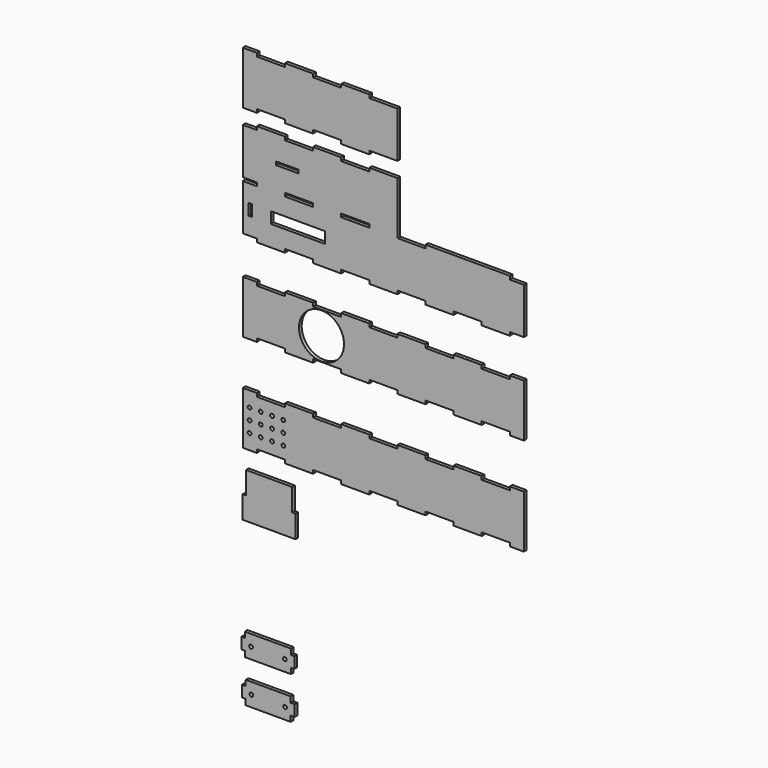
from build123d import *

# Parameters (mm, degrees)
F0_W     = 3
F0_H     = 10
F0_W_2   = 48
F0_W_3   = 25
F0_H_2   = 3
F0_W_4   = 20
F0_R     = 20
F0_R_2   = 1.65
F1_DEPTH = 3
F2_DEPTH = 3


with BuildPart() as f1:
    # F0 (on Front) → F1 (new body)
    with BuildSketch(Plane.XZ):
        Polygon((-112.5, 202.925142), (-125, 202.925142), (-125, 155.925142), (-112.5, 155.925142), (-112.5, 158.925142), (-87.5, 158.925142), (-87.5, 155.925142), (-62.5, 155.925142), (-62.5, 158.925142), (-37.5, 158.925142), (-37.5, 155.925142), (-12.5, 155.925142), (-12.5, 158.925142), (12.5, 158.925142), (12.5, 199.925142), (-12.5, 199.925142), (-12.5, 202.925142), (-37.5, 202.925142), (-37.5, 199.925142), (-62.5, 199.925142), (-62.5, 202.925142), (-87.5, 202.925142), (-87.5, 199.925142), (-112.5, 199.925142), align=None)
        Polygon((-87.5, 145.5), (-112.5, 145.5), (-112.5, 142.5), (-125, 142.5), (-125, 101.5), (-112.5, 101.5), (-112.5, 98.5), (-125, 98.5), (-125, 57.5), (-112.5, 57.5), (-112.5, 54.5), (-87.5, 54.5), (-87.5, 57.5), (-62.5, 57.5), (-62.5, 54.5), (-37.5, 54.5), (-37.5, 57.5), (-12.5, 57.5), (-12.5, 54.5), (12.5, 54.5), (12.5, 57.5), (37.5, 57.5), (37.5, 54.5), (62.5, 54.5), (62.5, 57.5), (87.5, 57.5), (87.5, 54.5), (112.5, 54.5), (112.5, 57.5), (125, 57.5), (125, 98.5), (112.5, 98.5), (112.5, 101.5), (87.5, 101.5), (87.5, 98.5), (62.5, 98.5), (62.5, 101.5), (37.5, 101.5), (37.5, 98.5), (12.5, 98.5), (12.5, 101.5), (12.5, 142.5), (12.5, 145.5), (-12.5, 145.5), (-12.5, 142.5), (-37.5, 142.5), (-37.5, 145.5), (-62.5, 145.5), (-62.5, 142.5), (-87.5, 142.5), align=None)
        with Locations((-118.5, 78)):
            Rectangle(F0_W, F0_H, mode=Mode.SUBTRACT)
        with Locations((-76, 78)):
            Rectangle(F0_W_2, F0_H, mode=Mode.SUBTRACT)
        with Locations((-75, 100)):
            Rectangle(F0_W_3, F0_H_2, mode=Mode.SUBTRACT)
        with Locations((-85.5, 122)):
            Rectangle(F0_W_4, F0_H_2, mode=Mode.SUBTRACT)
        with Locations((-25, 100)):
            Rectangle(F0_W_3, F0_H_2, mode=Mode.SUBTRACT)
        Polygon((-112.5, 23.5), (-125, 23.5), (-125, -23.5), (-112.5, -23.5), (-112.5, -20.5), (-87.5, -20.5), (-87.5, -23.5), (-62.5, -23.5), (-62.5, -20.5), (-37.5, -20.5), (-37.5, -23.5), (-12.5, -23.5), (-12.5, -20.5), (12.5, -20.5), (12.5, -23.5), (37.5, -23.5), (37.5, -20.5), (62.5, -20.5), (62.5, -23.5), (87.5, -23.5), (87.5, -20.5), (112.5, -20.5), (112.5, -23.5), (125, -23.5), (125, 23.5), (112.5, 23.5), (112.5, 20.5), (87.5, 20.5), (87.5, 23.5), (62.5, 23.5), (62.5, 20.5), (37.5, 20.5), (37.5, 23.5), (12.5, 23.5), (12.5, 20.5), (-12.5, 20.5), (-12.5, 23.5), (-37.5, 23.5), (-37.5, 20.5), (-62.5, 20.5), (-62.5, 23.5), (-87.5, 23.5), (-87.5, 20.5), (-112.5, 20.5), align=None)
        with Locations((-55, 0)):
            Circle(F0_R, mode=Mode.SUBTRACT)
        Polygon((-112.5, 23.5), (-125, 23.5), (-125, -23.5), (-112.5, -23.5), (-112.5, -20.5), (-87.5, -20.5), (-87.5, -23.5), (-62.5, -23.5), (-62.5, -20.5), (-37.5, -20.5), (-37.5, -23.5), (-12.5, -23.5), (-12.5, -20.5), (12.5, -20.5), (12.5, -23.5), (37.5, -23.5), (37.5, -20.5), (62.5, -20.5), (62.5, -23.5), (87.5, -23.5), (87.5, -20.5), (112.5, -20.5), (112.5, -23.5), (125, -23.5), (125, 23.5), (112.5, 23.5), (112.5, 20.5), (87.5, 20.5), (87.5, 23.5), (62.5, 23.5), (62.5, 20.5), (37.5, 20.5), (37.5, 23.5), (12.5, 23.5), (12.5, 20.5), (-12.5, 20.5), (-12.5, 23.5), (-37.5, 23.5), (-37.5, 20.5), (-62.5, 20.5), (-62.5, 23.5), (-87.5, 23.5), (-87.5, 20.5), (-112.5, 20.5), align=None)
        with Locations((-55, 0)):
            Circle(F0_R, mode=Mode.SUBTRACT)
        Polygon((-112.5, -63.443955), (-125, -63.443955), (-125, -110.443955), (-112.5, -110.443955), (-112.5, -107.443955), (-87.5, -107.443955), (-87.5, -110.443955), (-62.5, -110.443955), (-62.5, -107.443955), (-37.5, -107.443955), (-37.5, -110.443955), (-12.5, -110.443955), (-12.5, -107.443955), (12.5, -107.443955), (12.5, -110.443955), (37.5, -110.443955), (37.5, -107.443955), (62.5, -107.443955), (62.5, -110.443955), (87.5, -110.443955), (87.5, -107.443955), (112.5, -107.443955), (112.5, -110.443955), (125, -110.443955), (125, -63.443955), (112.5, -63.443955), (112.5, -66.443955), (87.5, -66.443955), (87.5, -63.443955), (62.5, -63.443955), (62.5, -66.443955), (37.5, -66.443955), (37.5, -63.443955), (12.5, -63.443955), (12.5, -66.443955), (-12.5, -66.443955), (-12.5, -63.443955), (-37.5, -63.443955), (-37.5, -66.443955), (-62.5, -66.443955), (-62.5, -63.443955), (-87.5, -63.443955), (-87.5, -66.443955), (-112.5, -66.443955), align=None)
        with Locations((-119, -96.943955)):
            Circle(F0_R_2, mode=Mode.SUBTRACT)
        with Locations((-119, -86.943955)):
            Circle(F0_R_2, mode=Mode.SUBTRACT)
        with Locations((-109, -96.943955)):
            Circle(F0_R_2, mode=Mode.SUBTRACT)
        with Locations((-109, -86.943955)):
            Circle(F0_R_2, mode=Mode.SUBTRACT)
        with Locations((-99, -96.943955)):
            Circle(F0_R_2, mode=Mode.SUBTRACT)
        with Locations((-99, -86.943955)):
            Circle(F0_R_2, mode=Mode.SUBTRACT)
        with Locations((-119, -76.943955)):
            Circle(F0_R_2, mode=Mode.SUBTRACT)
        with Locations((-109, -76.943955)):
            Circle(F0_R_2, mode=Mode.SUBTRACT)
        with Locations((-99, -76.943955)):
            Circle(F0_R_2, mode=Mode.SUBTRACT)
        with Locations((-89, -96.943955)):
            Circle(F0_R_2, mode=Mode.SUBTRACT)
        with Locations((-89, -86.943955)):
            Circle(F0_R_2, mode=Mode.SUBTRACT)
        with Locations((-89, -76.943955)):
            Circle(F0_R_2, mode=Mode.SUBTRACT)
    extrude(amount=F1_DEPTH)


with BuildPart() as f2:
    # F0 (on Front) → F2 (new body)
    with BuildSketch(Plane.XZ):
        Polygon((-112.5, 23.5), (-125, 23.5), (-125, -23.5), (-112.5, -23.5), (-112.5, -20.5), (-87.5, -20.5), (-87.5, -23.5), (-62.5, -23.5), (-62.5, -20.5), (-37.5, -20.5), (-37.5, -23.5), (-12.5, -23.5), (-12.5, -20.5), (12.5, -20.5), (12.5, -23.5), (37.5, -23.5), (37.5, -20.5), (62.5, -20.5), (62.5, -23.5), (87.5, -23.5), (87.5, -20.5), (112.5, -20.5), (112.5, -23.5), (125, -23.5), (125, 23.5), (112.5, 23.5), (112.5, 20.5), (87.5, 20.5), (87.5, 23.5), (62.5, 23.5), (62.5, 20.5), (37.5, 20.5), (37.5, 23.5), (12.5, 23.5), (12.5, 20.5), (-12.5, 20.5), (-12.5, 23.5), (-37.5, 23.5), (-37.5, 20.5), (-62.5, 20.5), (-62.5, 23.5), (-87.5, 23.5), (-87.5, 20.5), (-112.5, 20.5), align=None)
        with Locations((-55, 0)):
            Circle(F0_R, mode=Mode.SUBTRACT)
        Polygon((-87.5, 145.5), (-112.5, 145.5), (-112.5, 142.5), (-125, 142.5), (-125, 101.5), (-112.5, 101.5), (-112.5, 98.5), (-125, 98.5), (-125, 57.5), (-112.5, 57.5), (-112.5, 54.5), (-87.5, 54.5), (-87.5, 57.5), (-62.5, 57.5), (-62.5, 54.5), (-37.5, 54.5), (-37.5, 57.5), (-12.5, 57.5), (-12.5, 54.5), (12.5, 54.5), (12.5, 57.5), (37.5, 57.5), (37.5, 54.5), (62.5, 54.5), (62.5, 57.5), (87.5, 57.5), (87.5, 54.5), (112.5, 54.5), (112.5, 57.5), (125, 57.5), (125, 98.5), (112.5, 98.5), (112.5, 101.5), (87.5, 101.5), (87.5, 98.5), (62.5, 98.5), (62.5, 101.5), (37.5, 101.5), (37.5, 98.5), (12.5, 98.5), (12.5, 101.5), (12.5, 142.5), (12.5, 145.5), (-12.5, 145.5), (-12.5, 142.5), (-37.5, 142.5), (-37.5, 145.5), (-62.5, 145.5), (-62.5, 142.5), (-87.5, 142.5), align=None)
        with Locations((-118.5, 78)):
            Rectangle(F0_W, F0_H, mode=Mode.SUBTRACT)
        with Locations((-76, 78)):
            Rectangle(F0_W_2, F0_H, mode=Mode.SUBTRACT)
        with Locations((-75, 100)):
            Rectangle(F0_W_3, F0_H_2, mode=Mode.SUBTRACT)
        with Locations((-85.5, 122)):
            Rectangle(F0_W_4, F0_H_2, mode=Mode.SUBTRACT)
        with Locations((-25, 100)):
            Rectangle(F0_W_3, F0_H_2, mode=Mode.SUBTRACT)
        with Locations((75, 100)):
            Rectangle(F0_W_3, F0_H_2)
        Polygon((-112.5, 202.925142), (-125, 202.925142), (-125, 155.925142), (-112.5, 155.925142), (-112.5, 158.925142), (-87.5, 158.925142), (-87.5, 155.925142), (-62.5, 155.925142), (-62.5, 158.925142), (-37.5, 158.925142), (-37.5, 155.925142), (-12.5, 155.925142), (-12.5, 158.925142), (12.5, 158.925142), (12.5, 199.925142), (-12.5, 199.925142), (-12.5, 202.925142), (-37.5, 202.925142), (-37.5, 199.925142), (-62.5, 199.925142), (-62.5, 202.925142), (-87.5, 202.925142), (-87.5, 199.925142), (-112.5, 199.925142), align=None)
        Polygon((-112.5, -63.443955), (-125, -63.443955), (-125, -110.443955), (-112.5, -110.443955), (-112.5, -107.443955), (-87.5, -107.443955), (-87.5, -110.443955), (-62.5, -110.443955), (-62.5, -107.443955), (-37.5, -107.443955), (-37.5, -110.443955), (-12.5, -110.443955), (-12.5, -107.443955), (12.5, -107.443955), (12.5, -110.443955), (37.5, -110.443955), (37.5, -107.443955), (62.5, -107.443955), (62.5, -110.443955), (87.5, -110.443955), (87.5, -107.443955), (112.5, -107.443955), (112.5, -110.443955), (125, -110.443955), (125, -63.443955), (112.5, -63.443955), (112.5, -66.443955), (87.5, -66.443955), (87.5, -63.443955), (62.5, -63.443955), (62.5, -66.443955), (37.5, -66.443955), (37.5, -63.443955), (12.5, -63.443955), (12.5, -66.443955), (-12.5, -66.443955), (-12.5, -63.443955), (-37.5, -63.443955), (-37.5, -66.443955), (-62.5, -66.443955), (-62.5, -63.443955), (-87.5, -63.443955), (-87.5, -66.443955), (-112.5, -66.443955), align=None)
        with Locations((-119, -96.943955)):
            Circle(F0_R_2, mode=Mode.SUBTRACT)
        with Locations((-119, -86.943955)):
            Circle(F0_R_2, mode=Mode.SUBTRACT)
        with Locations((-109, -96.943955)):
            Circle(F0_R_2, mode=Mode.SUBTRACT)
        with Locations((-109, -86.943955)):
            Circle(F0_R_2, mode=Mode.SUBTRACT)
        with Locations((-99, -96.943955)):
            Circle(F0_R_2, mode=Mode.SUBTRACT)
        with Locations((-99, -86.943955)):
            Circle(F0_R_2, mode=Mode.SUBTRACT)
        with Locations((-119, -76.943955)):
            Circle(F0_R_2, mode=Mode.SUBTRACT)
        with Locations((-109, -76.943955)):
            Circle(F0_R_2, mode=Mode.SUBTRACT)
        with Locations((-99, -76.943955)):
            Circle(F0_R_2, mode=Mode.SUBTRACT)
        with Locations((-89, -96.943955)):
            Circle(F0_R_2, mode=Mode.SUBTRACT)
        with Locations((-89, -86.943955)):
            Circle(F0_R_2, mode=Mode.SUBTRACT)
        with Locations((-89, -76.943955)):
            Circle(F0_R_2, mode=Mode.SUBTRACT)
        Polygon((-122.122085, -146.806251), (-125.122085, -146.806251), (-125.122085, -166.806251), (-78.122085, -166.806251), (-78.122085, -146.806251), (-81.122085, -146.806251), (-81.122085, -126.806251), (-122.122085, -126.806251), align=None)
        Polygon((-125.871524, -296.200624), (-125.871524, -306.200624), (-122.371524, -306.200624), (-122.371524, -311.200624), (-82.371524, -311.200624), (-82.371524, -306.200624), (-78.871524, -306.200624), (-78.871524, -296.200624), (-82.371524, -296.200624), (-82.371524, -291.200624), (-122.371524, -291.200624), (-122.371524, -296.200624), align=None)
        with Locations((-117.371524, -301.200624)):
            Circle(F0_R_2, mode=Mode.SUBTRACT)
        with Locations((-87.371524, -301.200624)):
            Circle(F0_R_2, mode=Mode.SUBTRACT)
        Polygon((-126.204465, -258.732553), (-126.204465, -268.732553), (-123.204465, -268.732553), (-123.204465, -273.732553), (-82.204465, -273.732553), (-82.204465, -268.732553), (-79.204465, -268.732553), (-79.204465, -258.732553), (-82.204465, -258.732553), (-82.204465, -253.732553), (-123.204465, -253.732553), (-123.204465, -258.732553), align=None)
        with Locations((-117.704465, -263.732553)):
            Circle(F0_R_2, mode=Mode.SUBTRACT)
        with Locations((-87.704465, -263.732553)):
            Circle(F0_R_2, mode=Mode.SUBTRACT)
    extrude(amount=F2_DEPTH)


solid = Compound([f1.part, f2.part])
